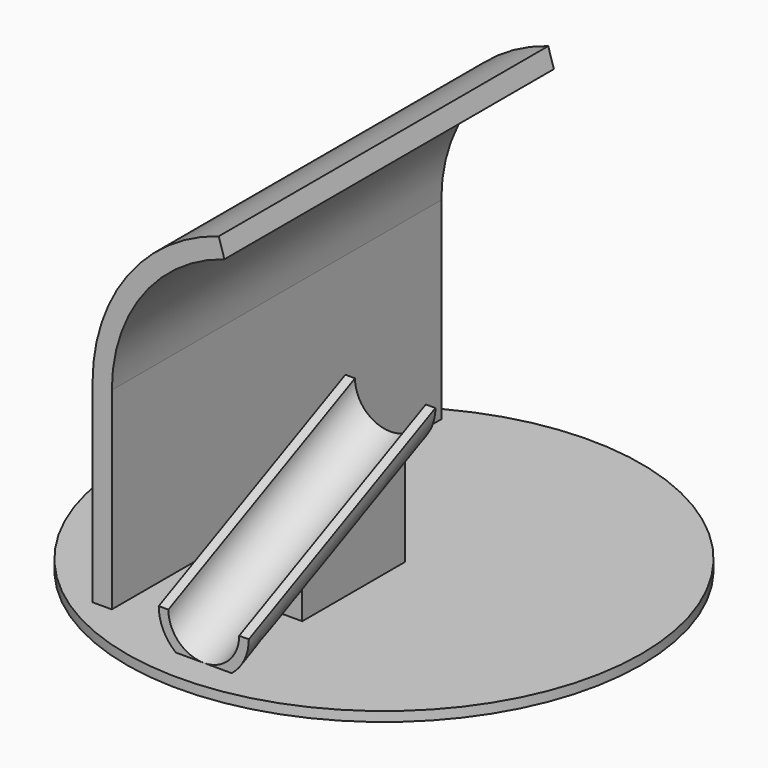
from build123d import *

# Parameters (mm, degrees)
F3_W     = 5
F3_H     = 20
F3_R     = 40
F5_DEPTH = 1.5
F6_W     = 3
F6_H     = 64


with BuildPart() as f2:
    # F2: sweep along a path in F1
    with BuildLine(Plane.YZ) as f2_path:
        Line((0, 0), (36.2523114815, 16.9047304696))
    # F0 (on Front) → F2 (sweep)
    with BuildSketch(Plane.XZ):
        with BuildLine():
            Line((-5.5, 7), (-7, 7))
            ThreePointArc((-7, 7), (0, 0), (7, 7))
            Line((7, 7), (5.5, 7))
            ThreePointArc((5.5, 7), (0, 1.5), (-5.5, 7))
        make_face()
    sweep(path=f2_path.line)

    # F3 (on Top) → F4 (join, up to the next surface of F2)
    with BuildSketch(Plane.XY):
        with Locations((0, 26)):
            Rectangle(F3_W, F3_H)
    extrude(until=Until.NEXT)

    # F3 (on Top) → F5 (join)
    with BuildSketch(Plane.XY):
        with Locations((0, 35)):
            Circle(F3_R)
        with Locations((0, 26)):
            Rectangle(F3_W, F3_H, mode=Mode.SUBTRACT)
    extrude(amount=F5_DEPTH)

    # F9: sweep along a path in F8
    with BuildLine(Plane.XZ.offset(-68)) as f9_path:
        Line((-17.4873532057, 1.5), (-17.4873532057, 31.5))
        ThreePointArc((-17.4873532057, 31.5), (-12.6384664104, 46.1788768101), (0, 55.08114025))
    # F6 (on face) → F9 (sweep)
    with BuildSketch(Plane.XY.offset(1.5)):
        with Locations((-18.9873532057, 36)):
            Rectangle(F6_W, F6_H)
    sweep(path=f9_path.line)


solid = f2.part
